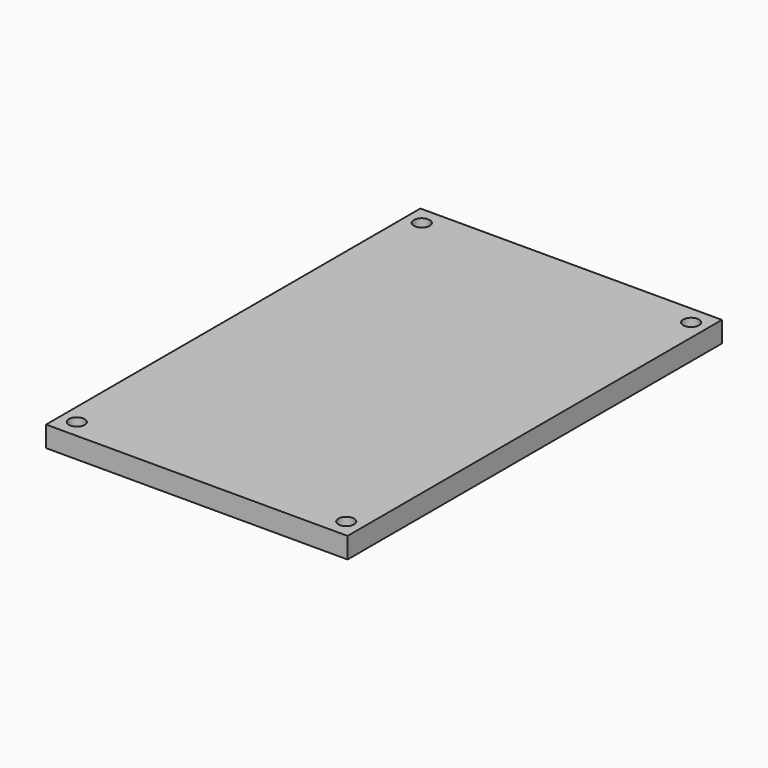
from build123d import *

# Parameters (mm, degrees)
F0_W     = 368.3
F0_H     = 571.5
F1_DEPTH = 25.4
F2_R     = 9.660656
F3_DEPTH = 25.4


with BuildPart() as f1:
    # F0 (on Top) → F1 (new body)
    with BuildSketch(Plane.XY):
        with Locations((-18.127933, 28.910319)):
            Rectangle(F0_W, F0_H)
    extrude(amount=F1_DEPTH)

    # F2 (on face) → F3 (cut)
    with BuildSketch(Plane(origin=(0, 0, 0), x_dir=(1, 0, 0), z_dir=(0, 0, -1))):
        with Locations((-182.652771, 234.402895)):
            Circle(F2_R)
        with Locations((146.396905, 234.402895)):
            Circle(F2_R)
        with Locations((-182.652771, -292.223532)):
            Circle(F2_R)
        with Locations((146.396905, -292.223532)):
            Circle(F2_R)
    extrude(amount=-F3_DEPTH, mode=Mode.SUBTRACT)


solid = f1.part
